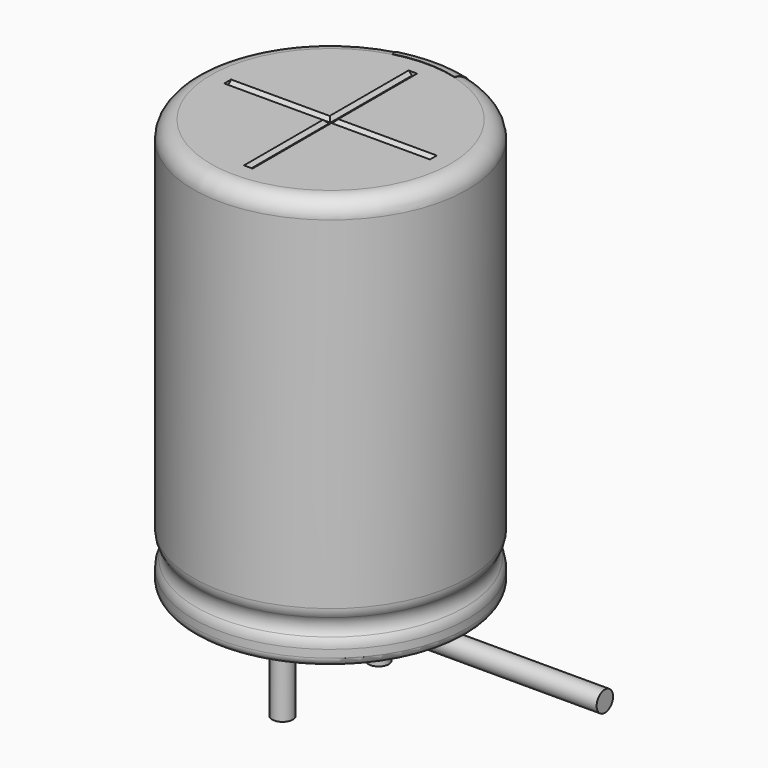
from build123d import *

# Parameters (mm, degrees)
SKETCH003_R         = 0.3
REVOLUTION001_ANGLE = -30
SKETCH015_W         = 0.5
SKETCH015_H         = 1
POCKET002_DEPTH     = 4.011
LINEARPATTERN_COUNT = 3
LINEARPATTERN_PITCH = 4.5
SKETCH010_R         = 0.3
PAD002_DEPTH        = 2.6
SKETCH013_R         = 3.5
PAD_DEPTH           = 0.5
POCKET001_DEPTH     = 3
POLARPATTERN_COUNT  = 3
POLARPATTERN_ANGLE  = 180
SKETCH012_R         = 3.5
POCKET_DEPTH        = 0.5


with BuildPart() as obj1:
    # AdditivePipe: sweep along a path in Sketch004
    with BuildLine(Plane.XZ) as additivepipe_path:
        Line((0, 0), (0, -0.5))
        ThreePointArc((0, -0.5), (0.292893, -1.207107), (1, -1.5))
        Line((1, -1.5), (6.6, -1.5))
    # Sketch003 (on ShapeBinder) → AdditivePipe (sweep)
    with BuildSketch(Plane(origin=(0, 0, 0), x_dir=(1, 0, 0), z_dir=(0, 0, -1))):
        with Locations((0, 1.75)):
            Circle(SKETCH003_R)
    sweep(path=additivepipe_path.line)


with BuildPart() as obj1_1:
    # Body003 placement: moved
    add(obj1.part.moved(Location((0, 3.5, 0))))


with BuildPart() as polaritymarking:
    # Sketch005 → Revolution001 (revolve)
    with BuildSketch(Plane(origin=(0, 0, 0), x_dir=(-0.258819, 0.965926, 0), z_dir=(0.965926, 0.258819, 0))):
        with BuildLine():
            Line((3.51, 0.25), (3.51, 12.01))
            ThreePointArc((3.51, 12.01), (3.863553, 11.863553), (4.01, 11.51))
            Line((4.01, 11.51), (4.01, 1.523941))
            ThreePointArc((4.01, 1.523941), (3.989134, 1.381006), (3.928278, 1.25))
            ThreePointArc((3.928278, 1.25), (3.853698, 1), (3.928278, 0.75))
            ThreePointArc((3.928278, 0.75), (3.989134, 0.618994), (4.01, 0.476059))
            Line((4.01, 0.476059), (4.01, 0.25))
            ThreePointArc((4.01, 0.25), (3.76, 0), (3.51, 0.25))
        make_face()
    revolve(axis=Axis((0, 0, 0), (0, 0, 1)), revolution_arc=REVOLUTION001_ANGLE)

    # Sketch015 → Pocket002 (cut, through all)
    with BuildSketch(Plane.XZ):
        with Locations((0, 2)):
            Rectangle(SKETCH015_W, SKETCH015_H)
    pocket002 = extrude(amount=-POCKET002_DEPTH, mode=Mode.SUBTRACT)

    # LinearPattern: Pocket002 ×3
    with Locations(*[(0, 0, i * LINEARPATTERN_PITCH) for i in range(1, LINEARPATTERN_COUNT)]):
        add(pocket002, mode=Mode.SUBTRACT)


with BuildPart() as obj2:
    # Sketch010 → Pad002 (new body)
    with BuildSketch(Plane(origin=(0, 1.75, 0), x_dir=(1, 0, 0), z_dir=(0, 0, 1))):
        Circle(SKETCH010_R)
    extrude(amount=-PAD002_DEPTH)


with BuildPart() as obj3:
    # Body007 base: copy of obj2
    add(obj2.part)


with BuildPart() as obj3_1:
    # Body007 placement: moved
    add(obj3.part.moved(Location((0, -3.5, 0))))


with BuildPart() as housingtop:
    # Sketch013 (on ShapeBinder) → Pad (new body)
    with BuildSketch(Plane.XY.offset(11.5)):
        Circle(SKETCH013_R)
    extrude(amount=PAD_DEPTH)

    # Sketch014 → Pocket001 (cut, symmetric)
    with BuildSketch(Plane.XZ):
        Polygon((-0.125, 12), (0.125, 12), (0.025, 11.9), (-0.025, 11.9), align=None)
    pocket001 = extrude(amount=POCKET001_DEPTH, both=True, mode=Mode.SUBTRACT)

    # PolarPattern: Pocket001 ×3 about axis
    polarpattern_axis = Axis((0, 0, 0), (0, 0, 1))
    for i in range(1, POLARPATTERN_COUNT):
        add(pocket001.rotate(polarpattern_axis, i * POLARPATTERN_ANGLE / (POLARPATTERN_COUNT - 1)), mode=Mode.SUBTRACT)


with BuildPart() as fusion:
    # Sketch → Revolution (revolve)
    with BuildSketch(Plane.XZ):
        with BuildLine():
            Line((0, 12), (3.5, 12))
            ThreePointArc((4, 11.5), (3.853553, 11.853553), (3.5, 12))
            Line((4, 11.5), (4, 1.523941))
            ThreePointArc((3.918278, 1.25), (3.979134, 1.381006), (4, 1.523941))
            ThreePointArc((3.918278, 1.25), (3.843698, 1), (3.918278, 0.75))
            ThreePointArc((4, 0.476059), (3.979134, 0.618994), (3.918278, 0.75))
            Line((4, 0.476059), (4, 0.25))
            ThreePointArc((3.75, 0), (3.926777, 0.073223), (4, 0.25))
            Line((0, 0), (3.75, 0))
            Line((0, 12), (0, 0))
        make_face()
    revolve(axis=Axis((0, 0, 0), (0, 0, 1)))

    # Sketch012 → Pocket (cut)
    with BuildSketch(Plane.XY.offset(12)):
        Circle(SKETCH012_R)
    extrude(amount=-POCKET_DEPTH, mode=Mode.SUBTRACT)

    # Fusion: union PolarityMarking, obj2, obj3, HousingTop
    add(polaritymarking.part)
    add(obj2.part)
    add(obj3_1.part)
    add(housingtop.part)


solid = Compound([obj1_1.part, fusion.part])
